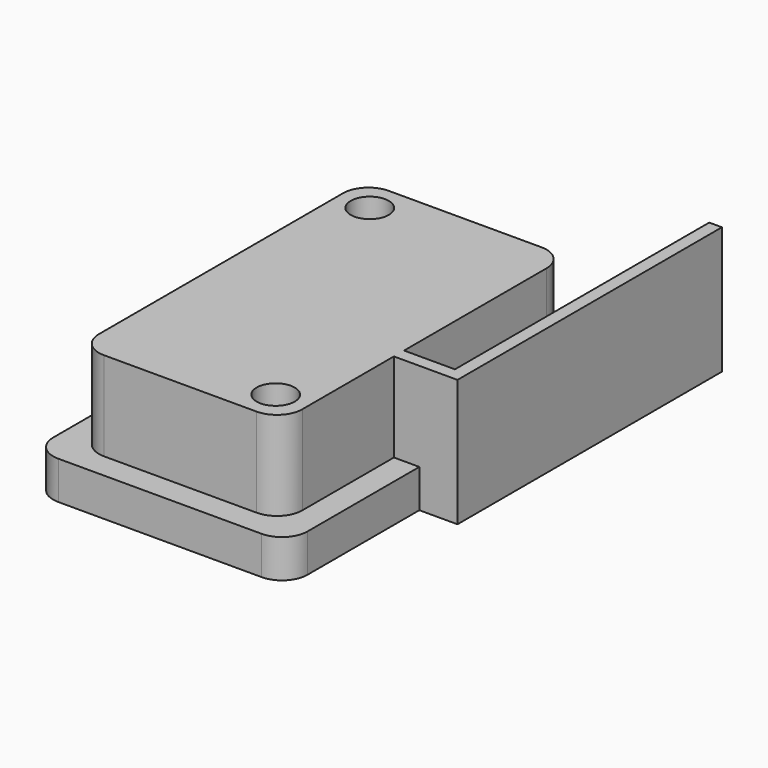
from build123d import *

# Parameters (mm, degrees)
F0_R     = 38.1
F1_DEPTH = 254
F2_R     = 50.8
F3_W     = 508
F3_H     = 812.8
F3_R     = 38.1
F4_DEPTH = 76.2
F5_R     = 50.8


with BuildPart() as f1:
    # F0 (on Top) → F1 (new body)
    with BuildSketch(Plane.XY):
        Polygon((-203.2, 355.6), (-203.2, -355.6), (203.2, -355.6), (203.2, -76.2), (203.2, -50.8), (203.2, 355.6), align=None)
        with Locations((139.7, -292.1)):
            Circle(F0_R, mode=Mode.SUBTRACT)
        with Locations((-139.7, 292.1)):
            Circle(F0_R, mode=Mode.SUBTRACT)
        Polygon((203.2, -50.8), (203.2, -76.2), (330.2, -76.2), (330.2, 584.2), (304.8, 584.2), (304.8, -50.8), align=None)
    extrude(amount=F1_DEPTH)

    # F2
    f2_edges = [f1.edges().sort_by_distance(p)[0] for p in [
        (-203.2, 355.6, 127),
        (203.2, 355.6, 127),
        (-203.2, -355.6, 127),
        (203.2, -355.6, 127),
    ]]
    fillet(f2_edges, radius=F2_R)


with BuildPart() as f4:
    # F3 (on Top) → F4 (new body)
    with BuildSketch(Plane.XY):
        Rectangle(F3_W, F3_H)
        with Locations((139.7, -292.1)):
            Circle(F3_R, mode=Mode.SUBTRACT)
        with Locations((-139.7, 292.1)):
            Circle(F3_R, mode=Mode.SUBTRACT)
    extrude(amount=F4_DEPTH)

    # F5
    f5_edges = [f4.edges().sort_by_distance(p)[0] for p in [
        (254, -406.4, 38.1),
        (-254, -406.4, 38.1),
        (-254, 406.4, 38.1),
        (254, 406.4, 38.1),
    ]]
    fillet(f5_edges, radius=F5_R)


solid = Compound([f1.part, f4.part])
